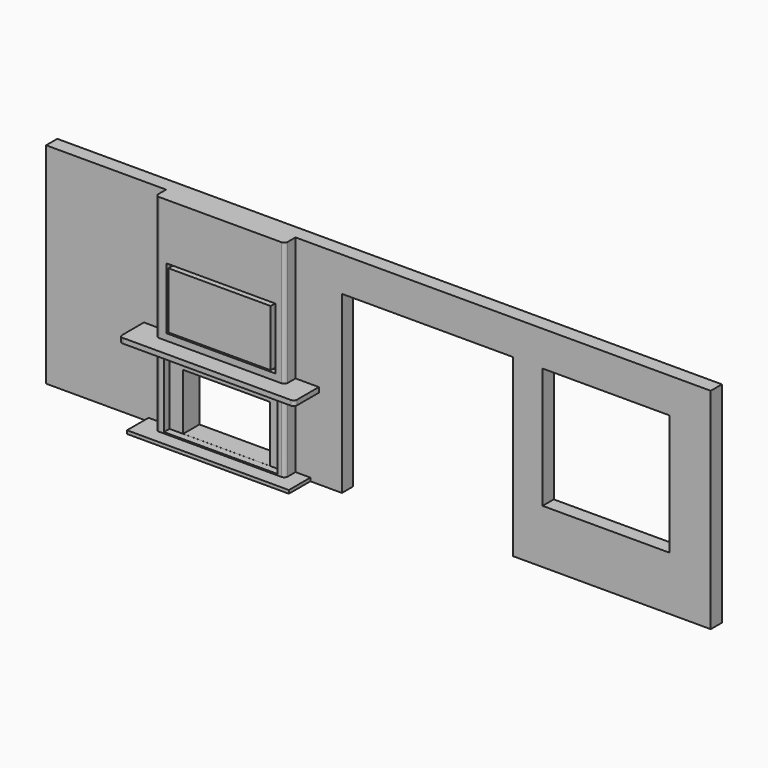
from build123d import *

# Parameters (mm, degrees)
F0_W           = 36.2768345653
F0_H           = 34.5578843861
F1_DEPTH       = 4
F3_DEPTH       = 60
F4_W           = 24.767242372
F4_H           = 16.1051880568
F5_DEPTH       = 25
F6_DEPTH       = 28.2239038497
F7_W           = 32.4881970882
F7_H           = 19.8430884629
F7_W_2         = 24.767242372
F7_H_2         = 16.1051880568
F8_DEPTH       = 1.9791987725
F9_W           = 36.9808363765
F9_H           = 4
F10_DEPTH      = 0.9402669966
F11_W          = 29.2263142765
F11_H          = 16.1546287127
F12_DEPTH      = 0.5
F13_W          = 31.2264300883
F13_H          = 17.6170864142
F13_W_2        = 29.2263142765
F13_H_2        = 16.1546287127
F14_DEPTH      = 1.5
F15_W          = 7.6713270694
F15_H          = 1.4258362353
F15_W_2        = 34.9808363765
F15_W_3        = 7.3478365541
F16_DEPTH      = 5
F16_DEPTH_BACK = 4.8303701915
F17_R          = 1


with BuildPart() as f1:
    # F0 (on Front) → F1 (new body)
    with BuildSketch(Plane.XZ):
        Polygon((95.8462816477, 30.5567865909), (-94.1537183523, 30.5567865909), (-94.1537183523, -29.4432134091), (-9.5833106827, -29.4432134091), (-9.5833106827, 20.6685056415), (39.3904383138, 20.6685056415), (39.3904383138, -29.4432134091), (95.8462816477, -29.4432134091), align=None)
        with Locations((65.9178723932, 3.2533946408)):
            Rectangle(F0_W, F0_H, mode=Mode.SUBTRACT)
    extrude(amount=F1_DEPTH)

    # F2 (on face) → F3 (join)
    with BuildSketch(Plane(origin=(0, 0, -29.4432134091), x_dir=(1, 0, 0), z_dir=(0, 0, -1))):
        with BuildLine():
            Line((-59.8266199231, 6.7806394547), (-59.8266199231, 4))
            Line((-59.8266199231, 4), (-22.8457835466, 4))
            Line((-22.8457835466, 4), (-22.8457835466, 6.7806394547))
            ThreePointArc((-22.8457835466, 6.7806394547), (-23.1386767654, 7.4877462359), (-23.8457835466, 7.7806394547))
            Line((-23.8457835466, 7.7806394547), (-58.8266199231, 7.7806394547))
            ThreePointArc((-58.8266199231, 7.7806394547), (-59.5337267043, 7.4877462359), (-59.8266199231, 6.7806394547))
        make_face()
    extrude(amount=-F3_DEPTH)

    # F4 (on face) → F5 (join)
    with BuildSketch(Plane.XZ):
        with Locations((-41.1277525127, -20.0668377802)):
            Rectangle(F4_W, F4_H)
    extrude(amount=F5_DEPTH)

    # F6 (cut): a face of the model
    f6_faces = [f1.faces().sort_by_distance(p)[0] for p in [
        (-41.1277525127, -25, -20.0668377802),
    ]]
    extrude(f6_faces, amount=-F6_DEPTH, mode=Mode.SUBTRACT)

    # F7 (on face) → F8 (cut)
    with BuildSketch(Plane.XZ.offset(7.7806394547)):
        with Locations((-41.1744564772, -18.2105200365)):
            Rectangle(F7_W, F7_H)
        with Locations((-41.1277525127, -20.0668377802)):
            Rectangle(F7_W_2, F7_H_2, mode=Mode.SUBTRACT)
    extrude(amount=-F8_DEPTH, mode=Mode.SUBTRACT)

    # F9 (on face) → F10 (join)
    with BuildSketch(Plane(origin=(0, 0, -29.4432134091), x_dir=(1, 0, 0), z_dir=(0, 0, -1))):
        Polygon((-64.8606717587, 11.7061249912), (-64.8606717587, 0), (-59.8266199231, 0), (-59.8266199231, 4), (-22.8457835466, 4), (-22.8457835466, 0), (-18.5923743993, 0), (-18.5923743993, 11.7061249912), align=None)
        with Locations((-41.3362017348, 2)):
            Rectangle(F9_W, F9_H)
    extrude(amount=-F10_DEPTH)

    # F11 (on face) → F12 (join)
    with BuildSketch(Plane.XZ.offset(7.7806394547)):
        with Locations((-41.1195810884, 5.75606036)):
            Rectangle(F11_W, F11_H)
    extrude(amount=F12_DEPTH)

    # F13 (on face) → F14 (cut)
    with BuildSketch(Plane.XZ.offset(7.7806394547)):
        with Locations((-41.1195810884, 5.75606036)):
            Rectangle(F13_W, F13_H)
        with Locations((-41.1195810884, 5.75606036)):
            Rectangle(F13_W_2, F13_H_2, mode=Mode.SUBTRACT)
    extrude(amount=-F14_DEPTH, mode=Mode.SUBTRACT)

    # F15 (on face) → F16 (join, two sides)
    with BuildSketch(Plane.XZ.offset(7.7806394547)) as f16_sk:
        with Locations((-20.0101200119, -5.6498679332)):
            Rectangle(F15_W, F15_H)
        with Locations((-41.3362017348, -5.6498679332)):
            Rectangle(F15_W_2, F15_H)
        with Locations((-62.5005382001, -5.6498679332)):
            Rectangle(F15_W_3, F15_H)
    extrude(amount=F16_DEPTH)
    extrude(f16_sk.sketch, amount=-F16_DEPTH_BACK)

    # F17
    f17_edges = [f1.edges().sort_by_distance(p)[0] for p in [
        (-16.174456, -12.780639, -5.649868),
        (-66.174456, -12.780639, -5.649868),
    ]]
    fillet(f17_edges, radius=F17_R)


solid = f1.part
